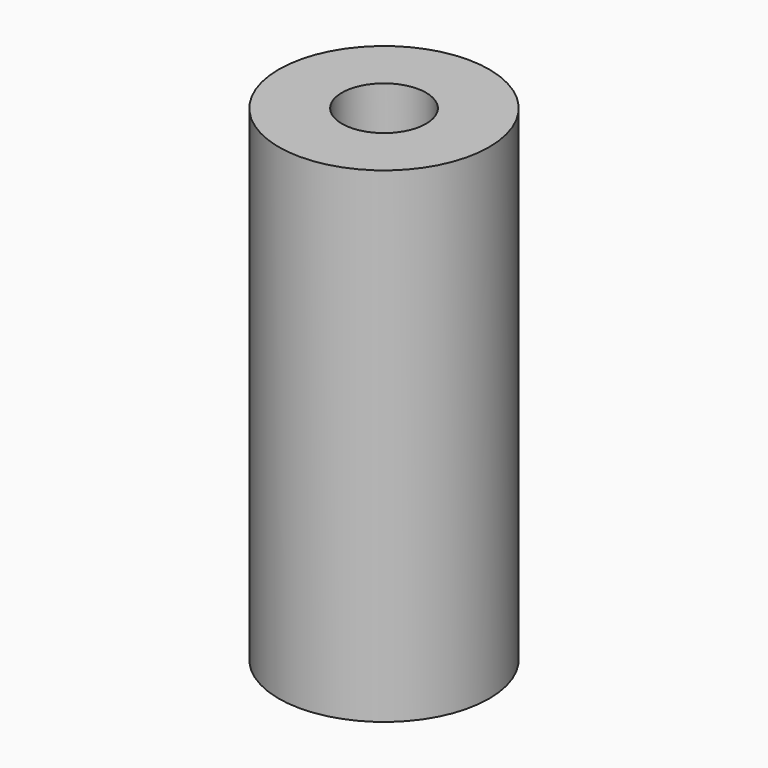
from build123d import *

# Parameters (mm, degrees)
SKETCH_R        = 6.5
SKETCH_R_2      = 2
PAD_DEPTH       = 30
SKETCH001_R     = 2.6
POCKET_DEPTH    = 10
SKETCH002_R     = 2.75
POCKET001_DEPTH = 9
SKETCH003_W     = 9
SKETCH003_H     = 1.5
SKETCH003_W_2   = 1.5
SKETCH003_H_2   = 9
POCKET002_DEPTH = 11


with BuildPart() as part:
    # Sketch → Pad (new body)
    with BuildSketch(Plane.XY):
        Circle(SKETCH_R)
        Circle(SKETCH_R_2, mode=Mode.SUBTRACT)
    extrude(amount=PAD_DEPTH)

    # Sketch001 → Pocket (cut)
    with BuildSketch(Plane.XY.offset(30)):
        Circle(SKETCH001_R)
    extrude(amount=-POCKET_DEPTH, mode=Mode.SUBTRACT)

    # Sketch002 → Pocket001 (cut)
    with BuildSketch(Plane(origin=(0, 0, 0), x_dir=(1, 0, 0), z_dir=(0, 0, -1))):
        Circle(SKETCH002_R)
    extrude(amount=-POCKET001_DEPTH, mode=Mode.SUBTRACT)

    # Sketch003 → Pocket002 (cut)
    with BuildSketch(Plane(origin=(0, 0, 0), x_dir=(1, 0, 0), z_dir=(0, 0, -1))):
        Rectangle(SKETCH003_W, SKETCH003_H)
        Rectangle(SKETCH003_W_2, SKETCH003_H_2)
    extrude(amount=-POCKET002_DEPTH, mode=Mode.SUBTRACT)


solid = part.part
